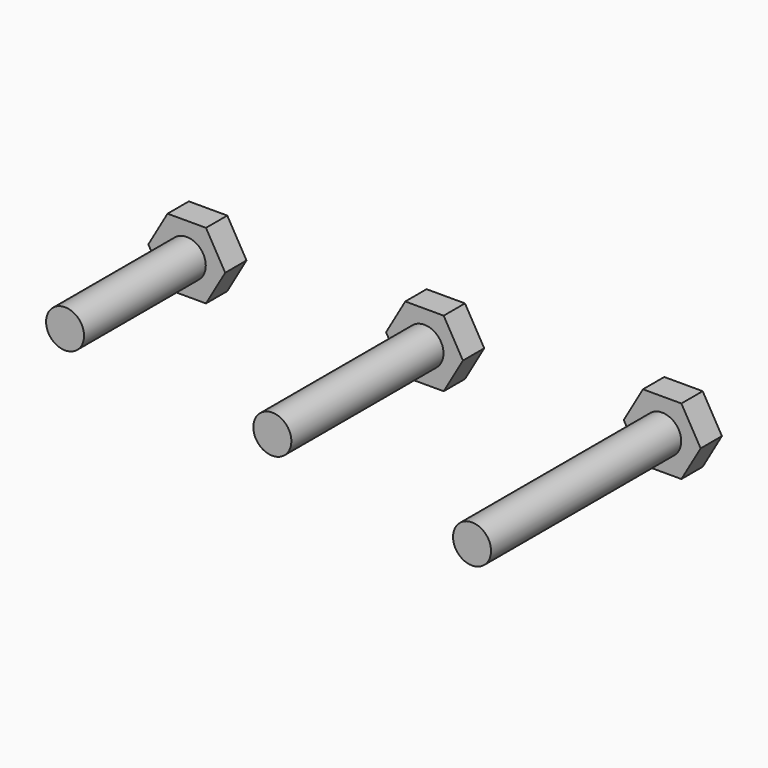
from build123d import *

# Parameters (mm, degrees)
F1_DEPTH = 2.8
F2_R     = 2
F3_DEPTH = 16
F4_DEPTH = 20
F5_DEPTH = 25


with BuildPart() as f1:
    # F0 (on Front) → F1 (new body)
    with BuildSketch(Plane.XZ):
        Polygon((4.041452, 0), (2.020726, 3.5), (-2.020726, 3.5), (-4.041452, 0), (-2.020726, -3.5), (2.020726, -3.5), align=None)
        Polygon((29.041452, 0), (27.020726, 3.5), (22.979274, 3.5), (20.958548, 0), (22.979274, -3.5), (27.020726, -3.5), align=None)
        Polygon((54.041452, 0), (52.020726, 3.5), (47.979274, 3.5), (45.958548, 0), (47.979274, -3.5), (52.020726, -3.5), align=None)
    extrude(amount=F1_DEPTH)

    # F2 (on face) → F3 (join)
    with BuildSketch(Plane.XZ.offset(2.8)):
        Circle(F2_R)
    extrude(amount=F3_DEPTH)

    # F2 (on face) → F4 (join)
    with BuildSketch(Plane.XZ.offset(2.8)):
        with Locations((25, 0)):
            Circle(F2_R)
    extrude(amount=F4_DEPTH)

    # F2 (on face) → F5 (join)
    with BuildSketch(Plane.XZ.offset(2.8)):
        with Locations((50, 0)):
            Circle(F2_R)
    extrude(amount=F5_DEPTH)


solid = f1.part
